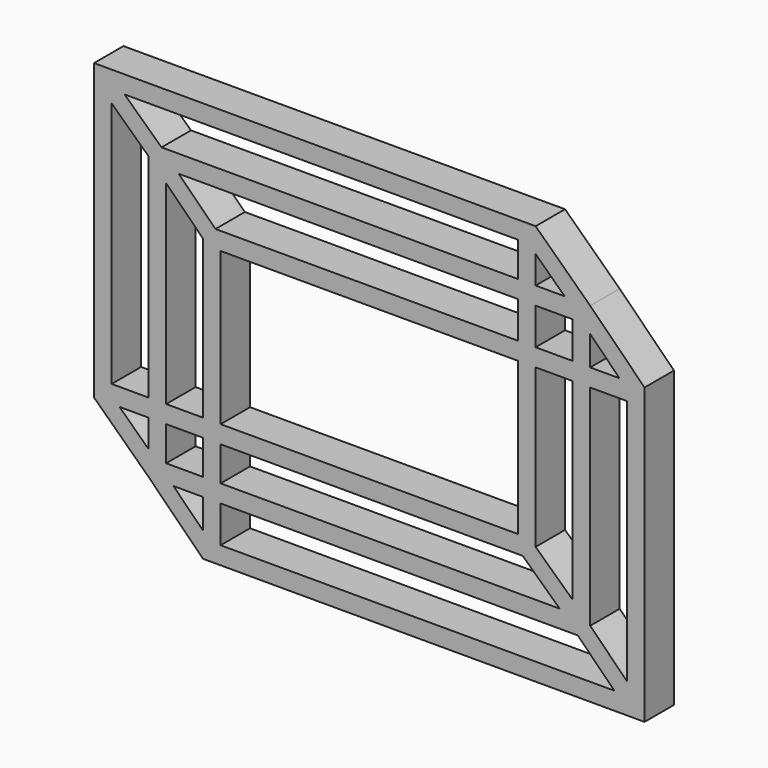
from build123d import *

# Parameters (mm, degrees)
F0_W     = 3.175
F0_H     = 2.972425
F1_DEPTH = 3.175


with BuildPart() as f1:
    # F0 (on Front) → F1 (new body)
    with BuildSketch(Plane.XZ):
        Polygon((38.1, 0), (0, 0), (0, -25.4), (4.699, -29.896425), (9.398, -34.595425), (47.498261, -34.595164), (47.498261, -9.195164), (42.811127, -4.508029), align=None)
        Polygon((9.398, -32.440164), (6.854261, -29.896425), (9.398, -29.896425), align=None, mode=Mode.SUBTRACT)
        Polygon((4.699, -27.787109), (2.204346, -25.4), (4.699, -25.4), align=None, mode=Mode.SUBTRACT)
        with Locations((7.8105, -26.886212)):
            Rectangle(F0_W, F0_H, mode=Mode.SUBTRACT)
        Polygon((44.898607, -33.071182), (10.922, -33.071415), (10.922, -29.896425), (41.735466, -29.896425), align=None, mode=Mode.SUBTRACT)
        Polygon((10.922, -28.372425), (10.922, -25.4), (36.982772, -25.4), (40.169899, -28.372425), align=None, mode=Mode.SUBTRACT)
        Polygon((38.1, -24.358034), (38.1, -10.719228), (41.287127, -10.719206), (41.287127, -27.330459), align=None, mode=Mode.SUBTRACT)
        Polygon((42.811127, -10.719196), (45.974261, -10.719174), (45.974261, -31.991563), (42.811127, -28.816814), align=None, mode=Mode.SUBTRACT)
        Polygon((1.524, -23.876), (1.524, -2.567819), (4.699, -5.540244), (4.699, -23.876), align=None, mode=Mode.SUBTRACT)
        Polygon((6.223, -23.876), (6.223, -7.098056), (9.398, -10.273056), (9.398, -23.876), align=None, mode=Mode.SUBTRACT)
        Polygon((10.922, -23.876), (10.922, -10.719415), (36.576, -10.719239), (36.576, -23.876), align=None, mode=Mode.SUBTRACT)
        Polygon((10.475892, -9.195418), (7.312758, -6.032029), (36.576, -6.032029), (36.576, -9.195239), align=None, mode=Mode.SUBTRACT)
        Polygon((5.826084, -4.508029), (2.638957, -1.524), (36.576, -1.524), (36.576, -4.508029), align=None, mode=Mode.SUBTRACT)
        Polygon((38.1, -6.032029), (41.287127, -6.032029), (41.287127, -9.195206), (38.1, -9.195228), align=None, mode=Mode.SUBTRACT)
        Polygon((42.811127, -9.195196), (42.811127, -6.663291), (45.343015, -9.195178), align=None, mode=Mode.SUBTRACT)
        Polygon((38.1, -4.508029), (38.1, -2.109316), (40.606781, -4.508029), align=None, mode=Mode.SUBTRACT)
    extrude(amount=F1_DEPTH)


solid = f1.part
